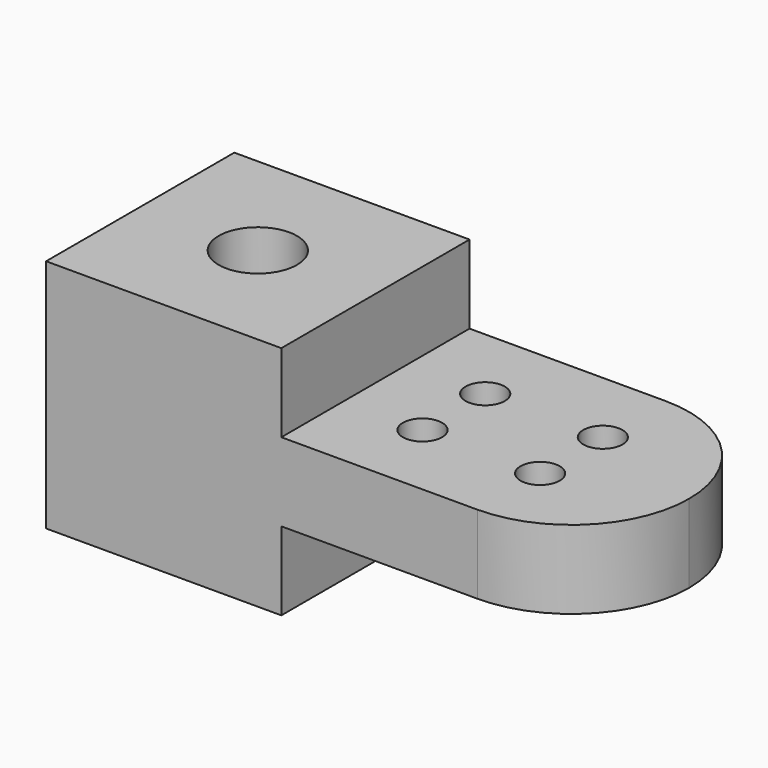
from build123d import *

# Parameters (mm, degrees)
F1_DEPTH = 38.1
F3_DEPTH = 25.4
F2_R     = 3.175
F4_DEPTH = 25.401
F5_R     = 6.35
F6_DEPTH = 38.101


with BuildPart() as f1:
    # F0 (on Front) → F1 (new body)
    with BuildSketch(Plane.XZ):
        Polygon((0, 38.1), (0, 0), (38.1, 0), (38.1, 12.7), (88.9, 12.7), (88.9, 25.4), (38.1, 25.4), (38.1, 38.1), align=None)
    extrude(amount=F1_DEPTH)

    # F2 (on face) → F3 (cut)
    with BuildSketch(Plane.XY.offset(25.4)):
        with BuildLine():
            ThreePointArc((69.85, 0), (83.320384, -5.579616), (88.9, -19.05))
            Line((88.9, -19.05), (88.9, 0))
            Line((88.9, 0), (69.85, 0))
        make_face()
        with BuildLine():
            ThreePointArc((88.9, -19.05), (83.320384, -32.520384), (69.85, -38.1))
            Line((69.85, -38.1), (88.9, -38.1))
            Line((88.9, -38.1), (88.9, -19.05))
        make_face()
    extrude(amount=-F3_DEPTH, mode=Mode.SUBTRACT)

    # F2 (on face) → F4 (cut, through all)
    with BuildSketch(Plane.XY.offset(25.4)):
        with Locations((50.8, -12.7)):
            Circle(F2_R)
        with Locations((69.85, -12.7)):
            Circle(F2_R)
        with Locations((69.85, -25.4)):
            Circle(F2_R)
        with Locations((50.8, -25.4)):
            Circle(F2_R)
    extrude(amount=-F4_DEPTH, mode=Mode.SUBTRACT)

    # F5 (on face) → F6 (cut, through all)
    with BuildSketch(Plane.XY.offset(38.1)):
        with Locations((19.05, -19.05)):
            Circle(F5_R)
    extrude(amount=-F6_DEPTH, mode=Mode.SUBTRACT)


solid = f1.part
